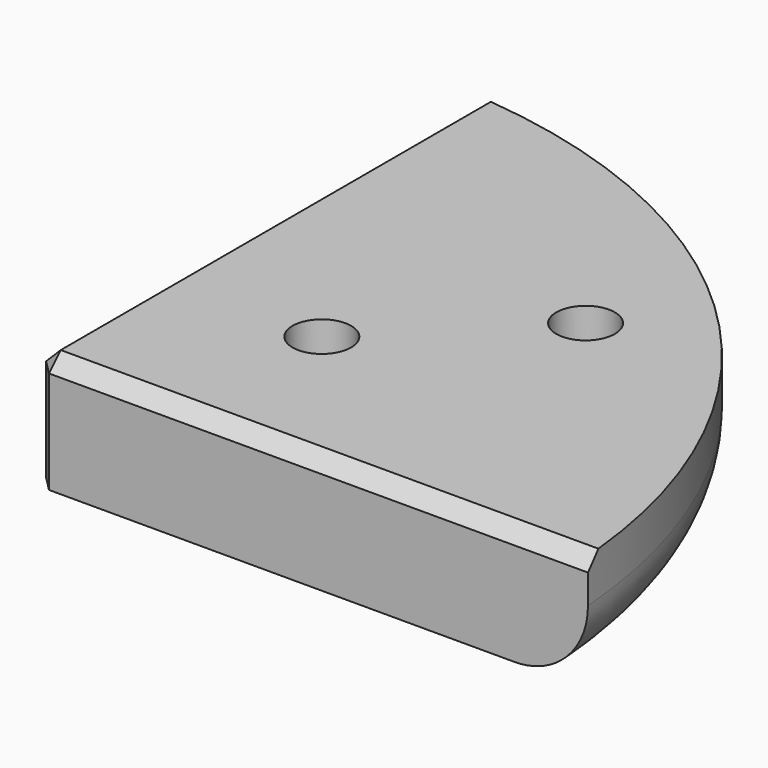
from build123d import *

# Parameters (mm, degrees)
F1_DEPTH = 8
F3_D     = 4
F3_DEPTH = 5
F3_TIP   = 1.2017212381
F4_SIZE  = 1
F5_R     = 5


with BuildPart() as f1:
    # F0 (on Top) → F1 (new body)
    with BuildSketch(Plane.XY):
        with BuildLine():
            Line((3.1, 3.1), (40.8826369013, 3.1))
            ThreePointArc((40.8826369013, 3.1), (28.9913780286, 28.9913780286), (3.1, 40.8826369013))
            Line((3.1, 40.8826369013), (3.1, 3.1))
        make_face()
    extrude(amount=F1_DEPTH)

    # F3
    with Locations(Plane.XY.offset(8)):
        with Locations((14, 14), (24, 24)):
            Hole(F3_D / 2, depth=F3_DEPTH)
            with Locations((0, 0, -(F3_DEPTH + F3_TIP / 2))):  # 118° drill point
                Cone(0, F3_D / 2, F3_TIP, mode=Mode.SUBTRACT)

    # F4
    f4_edges = [f1.edges().sort_by_distance(p)[0] for p in [
        (3.1, 3.1, 4),
        (21.991318, 3.1, 8),
        (3.1, 21.991318, 8),
    ]]
    chamfer(f4_edges, length=F4_SIZE)

    # F5
    f5_edges = [f1.edges().sort_by_distance(p)[0] for p in [
        (28.991378, 28.991378, 0),
    ]]
    fillet(f5_edges, radius=F5_R)


solid = f1.part
